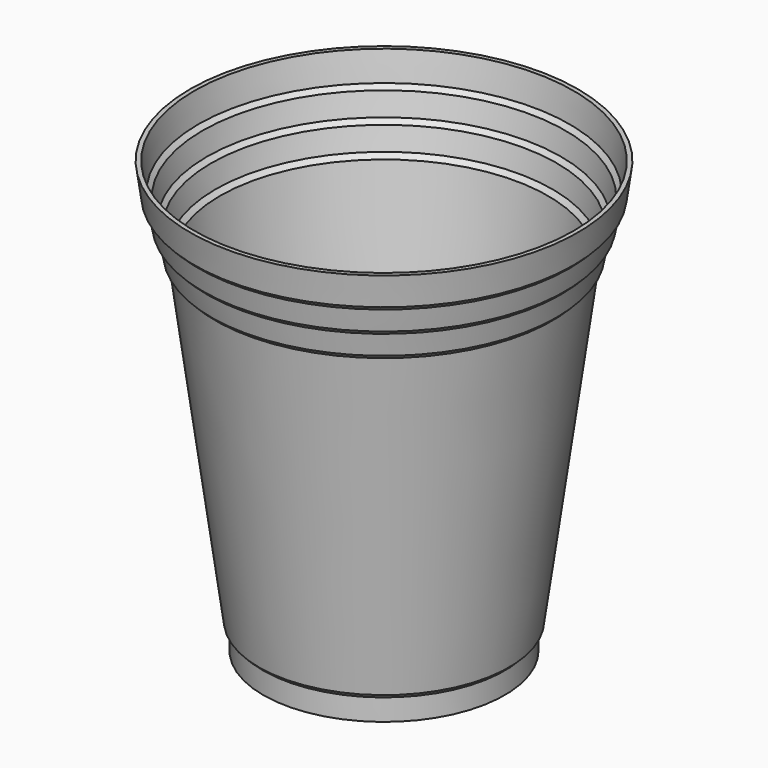
from build123d import *

# Parameters (mm, degrees)
F3_T = -1


with BuildPart() as f2:
    # F0 (on Front) → F2 (revolve)
    with BuildSketch(Plane.XZ):
        Polygon((-12, 3), (0, 3), (0, 4.999267403), (-28, 4.999267403), (-28, 0), (-20, 0), align=None)
        Polygon((-28, 4.999267403), (0, 4.999267403), (0, 6), (-29, 6), align=None)
        Polygon((-29, 6), (0, 6), (0, 80), (-39, 80), align=None)
        Polygon((-39, 80), (0, 80), (0, 81), (-40, 81), align=None)
        Polygon((-40, 81), (0, 81), (0, 86), (-41, 86), align=None)
        Polygon((-41, 86), (0, 86), (0, 87), (-42, 87), align=None)
        Polygon((-42, 87), (0, 87), (0, 92), (-43, 92), align=None)
        Polygon((-43, 92), (0, 92), (0, 93), (-44, 93), align=None)
        Polygon((-44, 93), (0, 93), (0, 100), (-45, 100), align=None)
    revolve(axis=Axis((0, 0, 57.7713921666), (0, 0, 1)))

    # F3
    f3_openings = [f2.faces().sort_by_distance(p)[0] for p in [
        (0, 0, 100),
    ]]
    offset(amount=F3_T, openings=f3_openings, kind=Kind.INTERSECTION)


solid = f2.part
